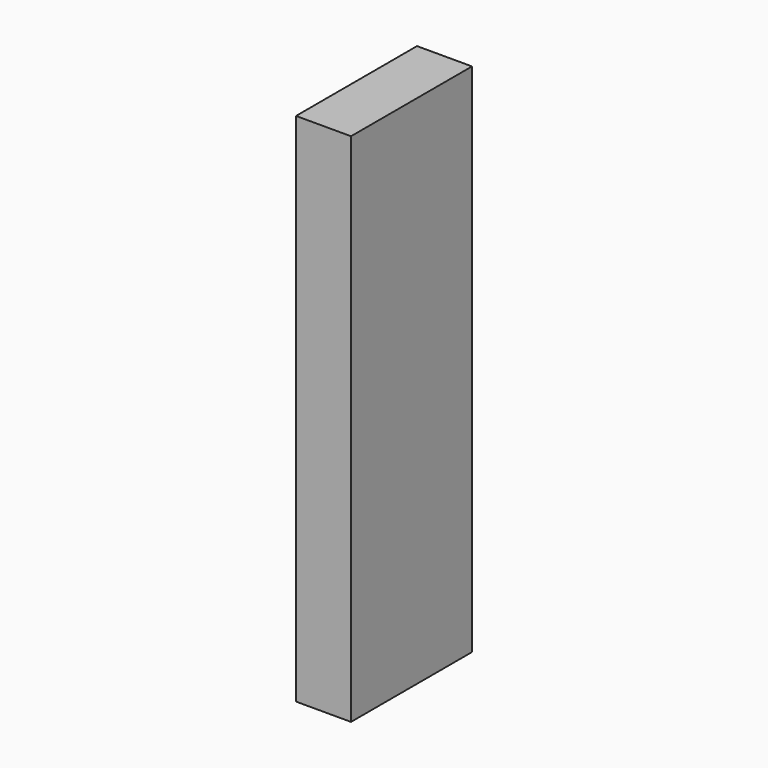
from build123d import *

# Parameters (mm, degrees)
F0_W     = 203.2
F0_H     = 558.8
F1_DEPTH = 1905
F2_W     = 14.003879
F2_H     = 537.845016
F3_DEPTH = 1905


with BuildPart() as f1:
    # F0 (on Top) → F1 (new body)
    with BuildSketch(Plane.XY):
        Rectangle(F0_W, F0_H)
    extrude(amount=F1_DEPTH)


with BuildPart() as f3:
    # F2 (on face) → F3 (new body)
    with BuildSketch(Plane.XY.offset(1905)):
        with Locations((108.601939, 0)):
            Rectangle(F2_W, F2_H)
    extrude(amount=F3_DEPTH)


solid = f1.part
